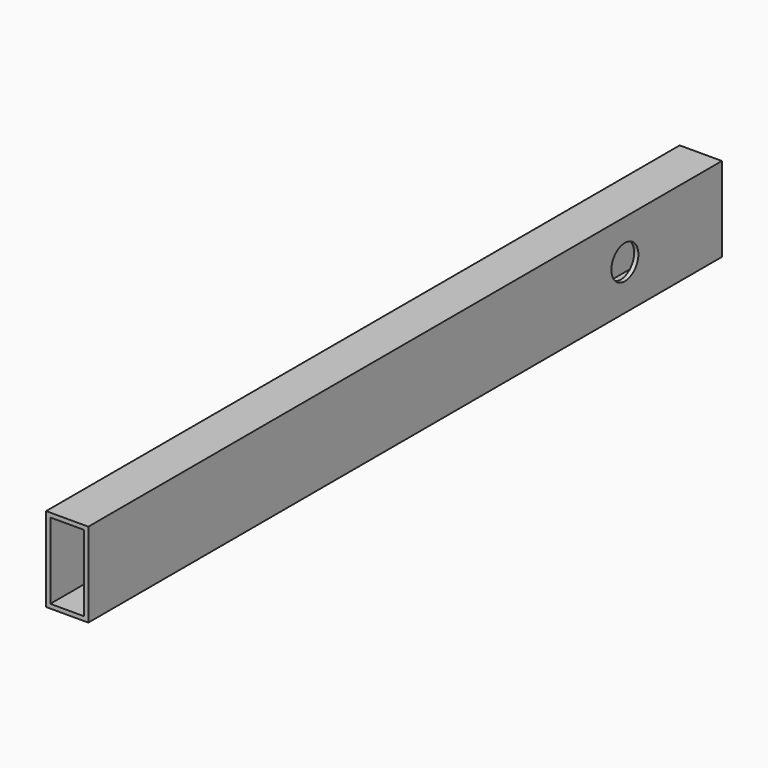
from build123d import *

# Parameters (mm, degrees)
F0_W     = 20
F0_H     = 40
F0_W_2   = 16
F0_H_2   = 36
F1_DEPTH = 375
F2_R     = 8
F3_DEPTH = 15


with BuildPart() as f1:
    # F0 (on Front) → F1 (new body)
    with BuildSketch(Plane.XZ):
        with Locations((10, -20)):
            Rectangle(F0_W, F0_H)
        with Locations((10, -20)):
            Rectangle(F0_W_2, F0_H_2, mode=Mode.SUBTRACT)
    extrude(amount=F1_DEPTH)

    # F2 (on face) → F3 (cut)
    with BuildSketch(Plane.YZ.offset(20)):
        with Locations((-57.451189, -18.785227)):
            Circle(F2_R)
    extrude(amount=-F3_DEPTH, mode=Mode.SUBTRACT)


solid = f1.part
